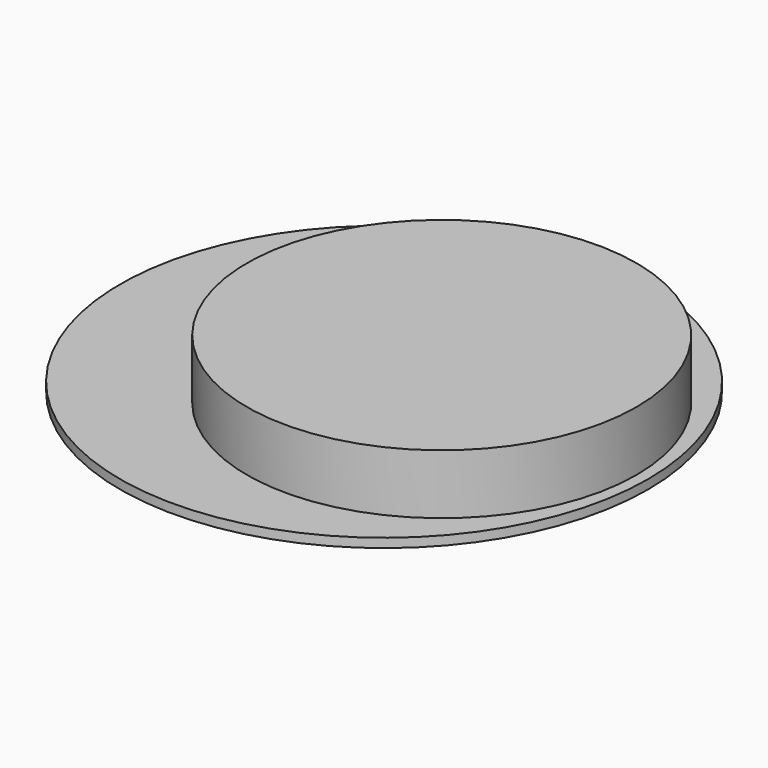
from build123d import *

# Parameters (mm, degrees)
F0_R     = 76.159602451
F1_DEPTH = 26.924
F2_R     = 103.1779531524
F3_DEPTH = 25.4
F4_DEPTH = 21.844


with BuildPart() as f1:
    # F0 (on Top) → F1 (new body)
    with BuildSketch(Plane.XY):
        Circle(F0_R)
    extrude(amount=F1_DEPTH)

    # F2 (on Top) → F3 (join)
    with BuildSketch(Plane.XY):
        with Locations((-22.5285384804, 0)):
            Circle(F2_R)
    extrude(amount=F3_DEPTH)

    # F4 (cut): a face of the model
    f4_faces = [f1.faces().sort_by_distance(p)[0] for p in [
        (-122.7881784191, 0, 25.4),
    ]]
    extrude(f4_faces, amount=-F4_DEPTH, mode=Mode.SUBTRACT)


solid = f1.part
